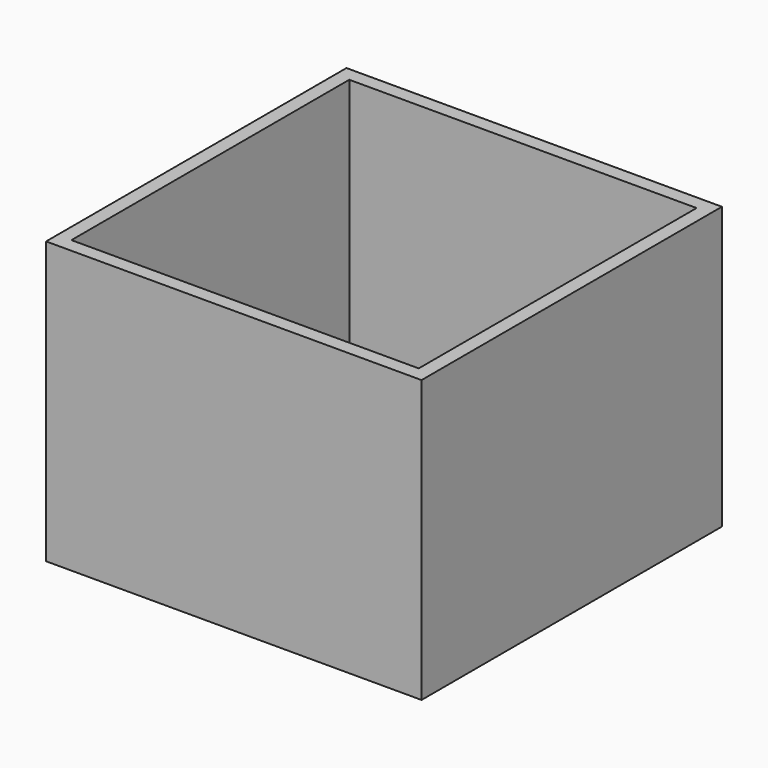
from build123d import *

# Parameters (mm, degrees)
SKETCH_W     = 80
SKETCH_H     = 80
PAD_DEPTH    = 60
SKETCH001_W  = 74
SKETCH001_H  = 74
POCKET_DEPTH = 57


with BuildPart() as part:
    # Sketch → Pad (new body)
    with BuildSketch(Plane.XY):
        Rectangle(SKETCH_W, SKETCH_H)
    extrude(amount=PAD_DEPTH)

    # Sketch001 (on Face6 of Pad) → Pocket (cut)
    with BuildSketch(Plane.XY.offset(60)):
        Rectangle(SKETCH001_W, SKETCH001_H)
    extrude(amount=-POCKET_DEPTH, mode=Mode.SUBTRACT)


solid = part.part
